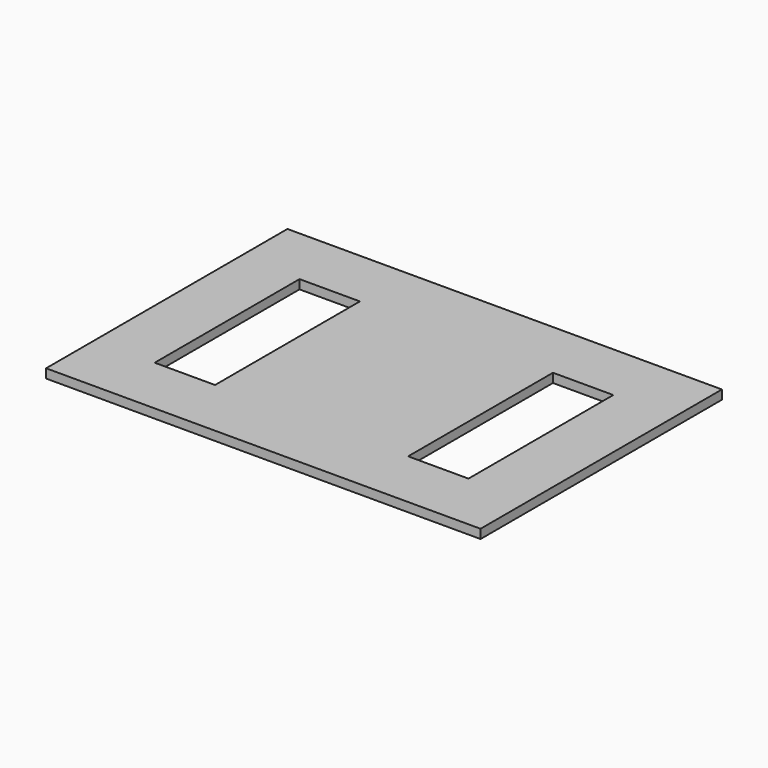
from build123d import *

# Parameters (mm, degrees)
F0_W     = 914.4
F0_H     = 635
F1_DEPTH = 6.35
F2_DEPTH = 12.7
F3_W     = 127
F3_H     = 381
F4_DEPTH = 73.66


with BuildPart() as f1:
    # F0 (on Top) → F1 (new body, symmetric)
    with BuildSketch(Plane.XY):
        Rectangle(F0_W, F0_H)
    extrude(amount=F1_DEPTH, both=True)

    # F0 (on Top) → F2 (join)
    with BuildSketch(Plane.XY):
        Rectangle(F0_W, F0_H)
    extrude(amount=F2_DEPTH)

    # F3 (on face) → F4 (cut)
    with BuildSketch(Plane(origin=(0, 0, -6.35), x_dir=(1, 0, 0), z_dir=(0, 0, -1))):
        with Locations((-266.7, 0)):
            Rectangle(F3_W, F3_H)
        with Locations((266.7, 0)):
            Rectangle(F3_W, F3_H)
    extrude(amount=-F4_DEPTH, mode=Mode.SUBTRACT)


solid = f1.part
